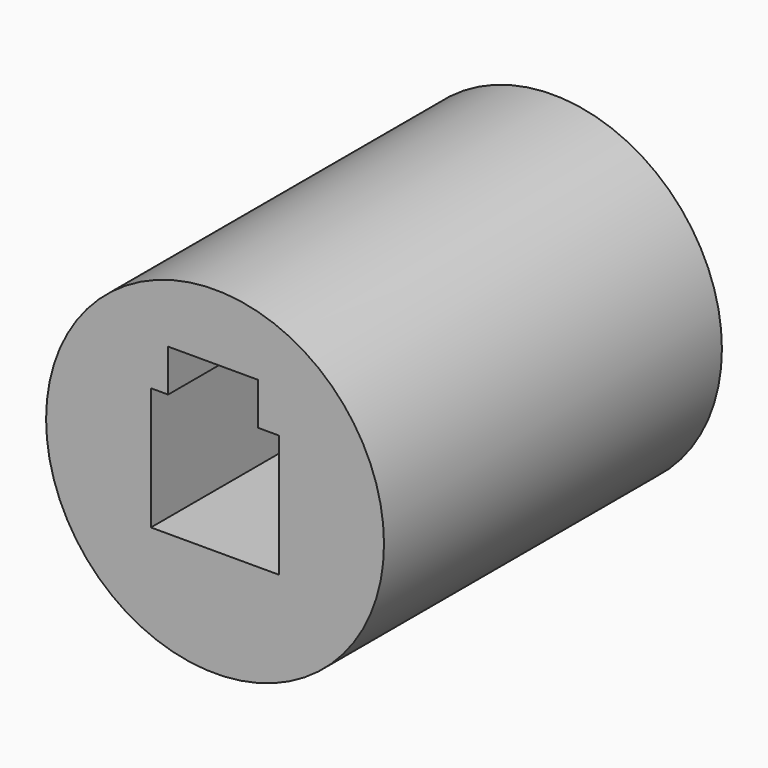
from build123d import *

# Parameters (mm, degrees)
F0_R     = 25.4
F1_DEPTH = 63.5
F2_W     = 19.278284
F2_H     = 18.425608
F3_DEPTH = 25.4
F4_W     = 13.516292
F4_H     = 9.261201
F5_DEPTH = 25.4


with BuildPart() as f1:
    # F0 (on Front) → F1 (new body)
    with BuildSketch(Plane.XZ):
        Circle(F0_R)
    extrude(amount=F1_DEPTH)

    # F2 (on face) → F3 (cut)
    with BuildSketch(Plane.XZ.offset(63.5)):
        Rectangle(F2_W, F2_H)
    extrude(amount=-F3_DEPTH, mode=Mode.SUBTRACT)

    # F4 (on face) → F5 (cut)
    with BuildSketch(Plane.XZ.offset(63.5)):
        with Locations((-0.294004, 10.932203)):
            Rectangle(F4_W, F4_H)
    extrude(amount=-F5_DEPTH, mode=Mode.SUBTRACT)


solid = f1.part
